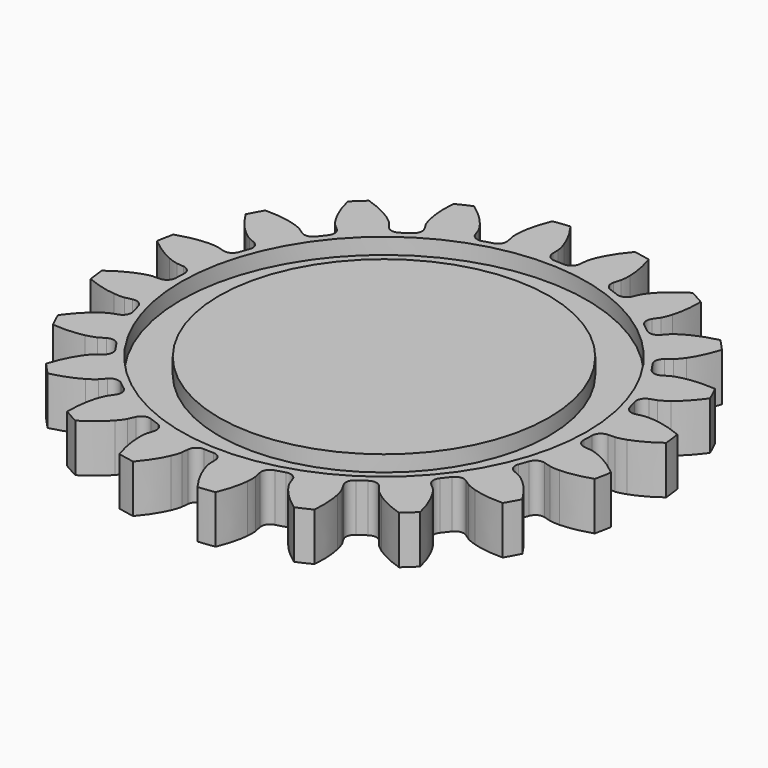
from build123d import *

# Parameters (mm, degrees)
SKETCH011_W  = 2.368544
SKETCH011_H  = 1
SKETCH010_W  = 2.368544
SKETCH010_H  = 1
PAD007_DEPTH = 3


with BuildPart() as revolution005:
    # Sketch011 → Revolution005 (revolve)
    with BuildSketch(Plane(origin=(0, 30, 9), x_dir=(1, 0, 0), z_dir=(0, -1, 0))):
        with Locations((11.491946, -1.5)):
            Rectangle(SKETCH011_W, SKETCH011_H)
    revolve(axis=Axis((0, 30, 9), (0, 0, 1)))


with BuildPart() as revolution004:
    # Sketch010 → Revolution004 (revolve)
    with BuildSketch(Plane(origin=(0, 30, 4), x_dir=(1, 0, 0), z_dir=(0, -1, 0))):
        with Locations((11.491946, 1.5)):
            Rectangle(SKETCH010_W, SKETCH010_H)
    revolve(axis=Axis((0, 30, 4), (0, 0, 1)))


with BuildPart() as cut009:
    # InvoluteGear009 → Pad007 (new body)
    with BuildSketch(Plane(origin=(0, 30, 5), x_dir=(0.981627, -0.190809, 0), z_dir=(0, 0, 1))):
        with BuildLine():
            Line((13.616272, -1.276078), (14.060782, -1.316606))
            add(Edge.make_bspline(
                [(14.060782, -1.316606), (14.131633, -1.31887), (14.344895, -1.31703), (14.700714, -1.23999)],
                knots=[0, 0, 0, 0, 1, 1, 1, 1], degree=3))
            add(Edge.make_bspline(
                [(14.700714, -1.23999), (15.126352, -1.146417), (15.738874, -0.946103), (16.493432, -0.520451)],
                knots=[0, 0, 0, 0, 1, 1, 1, 1], degree=3))
            ThreePointArc((16.493432, -0.520451), (16.501642, 0), (16.493432, 0.520451))
            add(Edge.make_bspline(
                [(16.493432, 0.520451), (15.738874, 0.946103), (15.126352, 1.146417), (14.700714, 1.23999)],
                knots=[0, 0, 0, 0, 1, 1, 1, 1], degree=3))
            add(Edge.make_bspline(
                [(14.700714, 1.23999), (14.344895, 1.31703), (14.131633, 1.31887), (14.060782, 1.316606)],
                knots=[0, 0, 0, 0, 1, 1, 1, 1], degree=3))
            Line((14.060782, 1.316606), (13.616272, 1.276078))
            ThreePointArc((13.616272, 1.276078), (13.214043, 1.395572), (13.006432, 1.760216))
            ThreePointArc((13.006432, 1.760216), (12.963409, 2.053202), (12.913788, 2.345144))
            ThreePointArc((12.913788, 2.345144), (12.998557, 2.756096), (13.344174, 2.994037))
            Line((13.344174, 2.994037), (13.779452, 3.092854))
            add(Edge.make_bspline(
                [(13.779452, 3.092854), (13.847535, 3.112595), (14.04979, 3.180246), (14.364388, 3.36347)],
                knots=[0, 0, 0, 0, 1, 1, 1, 1], degree=3))
            add(Edge.make_bspline(
                [(14.364388, 3.36347), (14.740277, 3.583993), (15.26092, 3.963782), (15.847014, 4.601772)],
                knots=[0, 0, 0, 0, 1, 1, 1, 1], degree=3))
            ThreePointArc((15.847014, 4.601772), (15.693995, 5.099288), (15.525358, 5.591729))
            add(Edge.make_bspline(
                [(15.525358, 5.591729), (14.676196, 5.763376), (14.031753, 5.764607), (13.598032, 5.722071)],
                knots=[0, 0, 0, 0, 1, 1, 1, 1], degree=3))
            add(Edge.make_bspline(
                [(13.598032, 5.722071), (13.235821, 5.685386), (13.032428, 5.621235), (12.965745, 5.597187)],
                knots=[0, 0, 0, 0, 1, 1, 1, 1], degree=3))
            Line((12.965745, 5.597187), (12.555515, 5.421282))
            ThreePointArc((12.555515, 5.421282), (12.136046, 5.410632), (11.825915, 5.693273))
            ThreePointArc((11.825915, 5.693273), (11.694461, 5.958625), (11.557053, 6.220944))
            ThreePointArc((11.557053, 6.220944), (11.510682, 6.637978), (11.765856, 6.971075))
            Line((11.765856, 6.971075), (12.149293, 7.199564))
            add(Edge.make_bspline(
                [(12.149293, 7.199564), (12.207943, 7.239377), (12.379394, 7.366218), (12.621975, 7.63769)],
                knots=[0, 0, 0, 0, 1, 1, 1, 1], degree=3))
            add(Edge.make_bspline(
                [(12.621975, 7.63769), (12.911322, 7.963576), (13.289121, 8.485665), (13.64938, 9.273542)],
                knots=[0, 0, 0, 0, 1, 1, 1, 1], degree=3))
            ThreePointArc((13.64938, 9.273542), (13.350109, 9.699422), (13.037553, 10.11565))
            add(Edge.make_bspline(
                [(13.037553, 10.11565), (12.176911, 10.016491), (11.563629, 9.818517), (11.16428, 9.644036)],
                knots=[0, 0, 0, 0, 1, 1, 1, 1], degree=3))
            add(Edge.make_bspline(
                [(11.16428, 9.644036), (10.831133, 9.497217), (10.657519, 9.373353), (10.60153, 9.329877)],
                knots=[0, 0, 0, 0, 1, 1, 1, 1], degree=3))
            Line((10.60153, 9.329877), (10.265736, 9.035813))
            ThreePointArc((10.265736, 9.035813), (9.870089, 8.896061), (9.487795, 9.069033))
            ThreePointArc((9.487795, 9.069033), (9.280777, 9.280777), (9.069033, 9.487795))
            ThreePointArc((9.069033, 9.487795), (8.896061, 9.870089), (9.035813, 10.265736))
            Line((9.035813, 10.265736), (9.329877, 10.60153))
            add(Edge.make_bspline(
                [(9.329877, 10.60153), (9.373353, 10.657519), (9.497217, 10.831133), (9.644036, 11.16428)],
                knots=[0, 0, 0, 0, 1, 1, 1, 1], degree=3))
            add(Edge.make_bspline(
                [(9.644036, 11.16428), (9.818517, 11.563629), (10.016491, 12.176911), (10.11565, 13.037553)],
                knots=[0, 0, 0, 0, 1, 1, 1, 1], degree=3))
            ThreePointArc((10.11565, 13.037553), (9.699422, 13.350109), (9.273542, 13.64938))
            add(Edge.make_bspline(
                [(9.273542, 13.64938), (8.485665, 13.289121), (7.963576, 12.911322), (7.63769, 12.621975)],
                knots=[0, 0, 0, 0, 1, 1, 1, 1], degree=3))
            add(Edge.make_bspline(
                [(7.63769, 12.621975), (7.366218, 12.379394), (7.239377, 12.207943), (7.199564, 12.149293)],
                knots=[0, 0, 0, 0, 1, 1, 1, 1], degree=3))
            Line((7.199564, 12.149293), (6.971075, 11.765856))
            ThreePointArc((6.971075, 11.765856), (6.637978, 11.510682), (6.220944, 11.557053))
            ThreePointArc((6.220944, 11.557053), (5.958625, 11.694461), (5.693273, 11.825915))
            ThreePointArc((5.693273, 11.825915), (5.410632, 12.136046), (5.421282, 12.555515))
            Line((5.421282, 12.555515), (5.597187, 12.965745))
            add(Edge.make_bspline(
                [(5.597187, 12.965745), (5.621235, 13.032428), (5.685386, 13.235821), (5.722071, 13.598032)],
                knots=[0, 0, 0, 0, 1, 1, 1, 1], degree=3))
            add(Edge.make_bspline(
                [(5.722071, 13.598032), (5.764607, 14.031753), (5.763376, 14.676196), (5.591729, 15.525358)],
                knots=[0, 0, 0, 0, 1, 1, 1, 1], degree=3))
            ThreePointArc((5.591729, 15.525358), (5.099288, 15.693995), (4.601772, 15.847014))
            add(Edge.make_bspline(
                [(4.601772, 15.847014), (3.963782, 15.26092), (3.583993, 14.740277), (3.36347, 14.364388)],
                knots=[0, 0, 0, 0, 1, 1, 1, 1], degree=3))
            add(Edge.make_bspline(
                [(3.36347, 14.364388), (3.180246, 14.04979), (3.112595, 13.847535), (3.092854, 13.779452)],
                knots=[0, 0, 0, 0, 1, 1, 1, 1], degree=3))
            Line((3.092854, 13.779452), (2.994037, 13.344174))
            ThreePointArc((2.994037, 13.344174), (2.756096, 12.998557), (2.345144, 12.913788))
            ThreePointArc((2.345144, 12.913788), (2.053202, 12.963409), (1.760216, 13.006432))
            ThreePointArc((1.760216, 13.006432), (1.395572, 13.214043), (1.276078, 13.616272))
            Line((1.276078, 13.616272), (1.316606, 14.060782))
            add(Edge.make_bspline(
                [(1.316606, 14.060782), (1.31887, 14.131633), (1.31703, 14.344895), (1.23999, 14.700714)],
                knots=[0, 0, 0, 0, 1, 1, 1, 1], degree=3))
            add(Edge.make_bspline(
                [(1.23999, 14.700714), (1.146417, 15.126352), (0.946103, 15.738874), (0.520451, 16.493432)],
                knots=[0, 0, 0, 0, 1, 1, 1, 1], degree=3))
            ThreePointArc((0.520451, 16.493432), (0, 16.501642), (-0.520451, 16.493432))
            add(Edge.make_bspline(
                [(-0.520451, 16.493432), (-0.946103, 15.738874), (-1.146417, 15.126352), (-1.23999, 14.700714)],
                knots=[0, 0, 0, 0, 1, 1, 1, 1], degree=3))
            add(Edge.make_bspline(
                [(-1.23999, 14.700714), (-1.31703, 14.344895), (-1.31887, 14.131633), (-1.316606, 14.060782)],
                knots=[0, 0, 0, 0, 1, 1, 1, 1], degree=3))
            Line((-1.316606, 14.060782), (-1.276078, 13.616272))
            ThreePointArc((-1.276078, 13.616272), (-1.395572, 13.214043), (-1.760216, 13.006432))
            ThreePointArc((-1.760216, 13.006432), (-2.053202, 12.963409), (-2.345144, 12.913788))
            ThreePointArc((-2.345144, 12.913788), (-2.756096, 12.998557), (-2.994037, 13.344174))
            Line((-2.994037, 13.344174), (-3.092854, 13.779452))
            add(Edge.make_bspline(
                [(-3.092854, 13.779452), (-3.112595, 13.847535), (-3.180246, 14.04979), (-3.36347, 14.364388)],
                knots=[0, 0, 0, 0, 1, 1, 1, 1], degree=3))
            add(Edge.make_bspline(
                [(-3.36347, 14.364388), (-3.583993, 14.740277), (-3.963782, 15.26092), (-4.601772, 15.847014)],
                knots=[0, 0, 0, 0, 1, 1, 1, 1], degree=3))
            ThreePointArc((-4.601772, 15.847014), (-5.099288, 15.693995), (-5.591729, 15.525358))
            add(Edge.make_bspline(
                [(-5.591729, 15.525358), (-5.763376, 14.676196), (-5.764607, 14.031753), (-5.722071, 13.598032)],
                knots=[0, 0, 0, 0, 1, 1, 1, 1], degree=3))
            add(Edge.make_bspline(
                [(-5.722071, 13.598032), (-5.685386, 13.235821), (-5.621235, 13.032428), (-5.597187, 12.965745)],
                knots=[0, 0, 0, 0, 1, 1, 1, 1], degree=3))
            Line((-5.597187, 12.965745), (-5.421282, 12.555515))
            ThreePointArc((-5.421282, 12.555515), (-5.410632, 12.136046), (-5.693273, 11.825915))
            ThreePointArc((-5.693273, 11.825915), (-5.958625, 11.694461), (-6.220944, 11.557053))
            ThreePointArc((-6.220944, 11.557053), (-6.637978, 11.510682), (-6.971075, 11.765856))
            Line((-6.971075, 11.765856), (-7.199564, 12.149293))
            add(Edge.make_bspline(
                [(-7.199564, 12.149293), (-7.239377, 12.207943), (-7.366218, 12.379394), (-7.63769, 12.621975)],
                knots=[0, 0, 0, 0, 1, 1, 1, 1], degree=3))
            add(Edge.make_bspline(
                [(-7.63769, 12.621975), (-7.963576, 12.911322), (-8.485665, 13.289121), (-9.273542, 13.64938)],
                knots=[0, 0, 0, 0, 1, 1, 1, 1], degree=3))
            ThreePointArc((-9.273542, 13.64938), (-9.699422, 13.350109), (-10.11565, 13.037553))
            add(Edge.make_bspline(
                [(-10.11565, 13.037553), (-10.016491, 12.176911), (-9.818517, 11.563629), (-9.644036, 11.16428)],
                knots=[0, 0, 0, 0, 1, 1, 1, 1], degree=3))
            add(Edge.make_bspline(
                [(-9.644036, 11.16428), (-9.497217, 10.831133), (-9.373353, 10.657519), (-9.329877, 10.60153)],
                knots=[0, 0, 0, 0, 1, 1, 1, 1], degree=3))
            Line((-9.329877, 10.60153), (-9.035813, 10.265736))
            ThreePointArc((-9.035813, 10.265736), (-8.896061, 9.870089), (-9.069033, 9.487795))
            ThreePointArc((-9.069033, 9.487795), (-9.280777, 9.280777), (-9.487795, 9.069033))
            ThreePointArc((-9.487795, 9.069033), (-9.870089, 8.896061), (-10.265736, 9.035813))
            Line((-10.265736, 9.035813), (-10.60153, 9.329877))
            add(Edge.make_bspline(
                [(-10.60153, 9.329877), (-10.657519, 9.373353), (-10.831133, 9.497217), (-11.16428, 9.644036)],
                knots=[0, 0, 0, 0, 1, 1, 1, 1], degree=3))
            add(Edge.make_bspline(
                [(-11.16428, 9.644036), (-11.563629, 9.818517), (-12.176911, 10.016491), (-13.037553, 10.11565)],
                knots=[0, 0, 0, 0, 1, 1, 1, 1], degree=3))
            ThreePointArc((-13.037553, 10.11565), (-13.350109, 9.699422), (-13.64938, 9.273542))
            add(Edge.make_bspline(
                [(-13.64938, 9.273542), (-13.289121, 8.485665), (-12.911322, 7.963576), (-12.621975, 7.63769)],
                knots=[0, 0, 0, 0, 1, 1, 1, 1], degree=3))
            add(Edge.make_bspline(
                [(-12.621975, 7.63769), (-12.379394, 7.366218), (-12.207943, 7.239377), (-12.149293, 7.199564)],
                knots=[0, 0, 0, 0, 1, 1, 1, 1], degree=3))
            Line((-12.149293, 7.199564), (-11.765856, 6.971075))
            ThreePointArc((-11.765856, 6.971075), (-11.510682, 6.637978), (-11.557053, 6.220944))
            ThreePointArc((-11.557053, 6.220944), (-11.694461, 5.958625), (-11.825915, 5.693273))
            ThreePointArc((-11.825915, 5.693273), (-12.136046, 5.410632), (-12.555515, 5.421282))
            Line((-12.555515, 5.421282), (-12.965745, 5.597187))
            add(Edge.make_bspline(
                [(-12.965745, 5.597187), (-13.032428, 5.621235), (-13.235821, 5.685386), (-13.598032, 5.722071)],
                knots=[0, 0, 0, 0, 1, 1, 1, 1], degree=3))
            add(Edge.make_bspline(
                [(-13.598032, 5.722071), (-14.031753, 5.764607), (-14.676196, 5.763376), (-15.525358, 5.591729)],
                knots=[0, 0, 0, 0, 1, 1, 1, 1], degree=3))
            ThreePointArc((-15.525358, 5.591729), (-15.693995, 5.099288), (-15.847014, 4.601772))
            add(Edge.make_bspline(
                [(-15.847014, 4.601772), (-15.26092, 3.963782), (-14.740277, 3.583993), (-14.364388, 3.36347)],
                knots=[0, 0, 0, 0, 1, 1, 1, 1], degree=3))
            add(Edge.make_bspline(
                [(-14.364388, 3.36347), (-14.04979, 3.180246), (-13.847535, 3.112595), (-13.779452, 3.092854)],
                knots=[0, 0, 0, 0, 1, 1, 1, 1], degree=3))
            Line((-13.779452, 3.092854), (-13.344174, 2.994037))
            ThreePointArc((-13.344174, 2.994037), (-12.998557, 2.756096), (-12.913788, 2.345144))
            ThreePointArc((-12.913788, 2.345144), (-12.963409, 2.053202), (-13.006432, 1.760216))
            ThreePointArc((-13.006432, 1.760216), (-13.214043, 1.395572), (-13.616272, 1.276078))
            Line((-13.616272, 1.276078), (-14.060782, 1.316606))
            add(Edge.make_bspline(
                [(-14.060782, 1.316606), (-14.131633, 1.31887), (-14.344895, 1.31703), (-14.700714, 1.23999)],
                knots=[0, 0, 0, 0, 1, 1, 1, 1], degree=3))
            add(Edge.make_bspline(
                [(-14.700714, 1.23999), (-15.126352, 1.146417), (-15.738874, 0.946103), (-16.493432, 0.520451)],
                knots=[0, 0, 0, 0, 1, 1, 1, 1], degree=3))
            ThreePointArc((-16.493432, 0.520451), (-16.501642, 0), (-16.493432, -0.520451))
            add(Edge.make_bspline(
                [(-16.493432, -0.520451), (-15.738874, -0.946103), (-15.126352, -1.146417), (-14.700714, -1.23999)],
                knots=[0, 0, 0, 0, 1, 1, 1, 1], degree=3))
            add(Edge.make_bspline(
                [(-14.700714, -1.23999), (-14.344895, -1.31703), (-14.131633, -1.31887), (-14.060782, -1.316606)],
                knots=[0, 0, 0, 0, 1, 1, 1, 1], degree=3))
            Line((-14.060782, -1.316606), (-13.616272, -1.276078))
            ThreePointArc((-13.616272, -1.276078), (-13.214043, -1.395572), (-13.006432, -1.760216))
            ThreePointArc((-13.006432, -1.760216), (-12.963409, -2.053202), (-12.913788, -2.345144))
            ThreePointArc((-12.913788, -2.345144), (-12.998557, -2.756096), (-13.344174, -2.994037))
            Line((-13.344174, -2.994037), (-13.779452, -3.092854))
            add(Edge.make_bspline(
                [(-13.779452, -3.092854), (-13.847535, -3.112595), (-14.04979, -3.180246), (-14.364388, -3.36347)],
                knots=[0, 0, 0, 0, 1, 1, 1, 1], degree=3))
            add(Edge.make_bspline(
                [(-14.364388, -3.36347), (-14.740277, -3.583993), (-15.26092, -3.963782), (-15.847014, -4.601772)],
                knots=[0, 0, 0, 0, 1, 1, 1, 1], degree=3))
            ThreePointArc((-15.847014, -4.601772), (-15.693995, -5.099288), (-15.525358, -5.591729))
            add(Edge.make_bspline(
                [(-15.525358, -5.591729), (-14.676196, -5.763376), (-14.031753, -5.764607), (-13.598032, -5.722071)],
                knots=[0, 0, 0, 0, 1, 1, 1, 1], degree=3))
            add(Edge.make_bspline(
                [(-13.598032, -5.722071), (-13.235821, -5.685386), (-13.032428, -5.621235), (-12.965745, -5.597187)],
                knots=[0, 0, 0, 0, 1, 1, 1, 1], degree=3))
            Line((-12.965745, -5.597187), (-12.555515, -5.421282))
            ThreePointArc((-12.555515, -5.421282), (-12.136046, -5.410632), (-11.825915, -5.693273))
            ThreePointArc((-11.825915, -5.693273), (-11.694461, -5.958625), (-11.557053, -6.220944))
            ThreePointArc((-11.557053, -6.220944), (-11.510682, -6.637978), (-11.765856, -6.971075))
            Line((-11.765856, -6.971075), (-12.149293, -7.199564))
            add(Edge.make_bspline(
                [(-12.149293, -7.199564), (-12.207943, -7.239377), (-12.379394, -7.366218), (-12.621975, -7.63769)],
                knots=[0, 0, 0, 0, 1, 1, 1, 1], degree=3))
            add(Edge.make_bspline(
                [(-12.621975, -7.63769), (-12.911322, -7.963576), (-13.289121, -8.485665), (-13.64938, -9.273542)],
                knots=[0, 0, 0, 0, 1, 1, 1, 1], degree=3))
            ThreePointArc((-13.64938, -9.273542), (-13.350109, -9.699422), (-13.037553, -10.11565))
            add(Edge.make_bspline(
                [(-13.037553, -10.11565), (-12.176911, -10.016491), (-11.563629, -9.818517), (-11.16428, -9.644036)],
                knots=[0, 0, 0, 0, 1, 1, 1, 1], degree=3))
            add(Edge.make_bspline(
                [(-11.16428, -9.644036), (-10.831133, -9.497217), (-10.657519, -9.373353), (-10.60153, -9.329877)],
                knots=[0, 0, 0, 0, 1, 1, 1, 1], degree=3))
            Line((-10.60153, -9.329877), (-10.265736, -9.035813))
            ThreePointArc((-10.265736, -9.035813), (-9.870089, -8.896061), (-9.487795, -9.069033))
            ThreePointArc((-9.487795, -9.069033), (-9.280777, -9.280777), (-9.069033, -9.487795))
            ThreePointArc((-9.069033, -9.487795), (-8.896061, -9.870089), (-9.035813, -10.265736))
            Line((-9.035813, -10.265736), (-9.329877, -10.60153))
            add(Edge.make_bspline(
                [(-9.329877, -10.60153), (-9.373353, -10.657519), (-9.497217, -10.831133), (-9.644036, -11.16428)],
                knots=[0, 0, 0, 0, 1, 1, 1, 1], degree=3))
            add(Edge.make_bspline(
                [(-9.644036, -11.16428), (-9.818517, -11.563629), (-10.016491, -12.176911), (-10.11565, -13.037553)],
                knots=[0, 0, 0, 0, 1, 1, 1, 1], degree=3))
            ThreePointArc((-10.11565, -13.037553), (-9.699422, -13.350109), (-9.273542, -13.64938))
            add(Edge.make_bspline(
                [(-9.273542, -13.64938), (-8.485665, -13.289121), (-7.963576, -12.911322), (-7.63769, -12.621975)],
                knots=[0, 0, 0, 0, 1, 1, 1, 1], degree=3))
            add(Edge.make_bspline(
                [(-7.63769, -12.621975), (-7.366218, -12.379394), (-7.239377, -12.207943), (-7.199564, -12.149293)],
                knots=[0, 0, 0, 0, 1, 1, 1, 1], degree=3))
            Line((-7.199564, -12.149293), (-6.971075, -11.765856))
            ThreePointArc((-6.971075, -11.765856), (-6.637978, -11.510682), (-6.220944, -11.557053))
            ThreePointArc((-6.220944, -11.557053), (-5.958625, -11.694461), (-5.693273, -11.825915))
            ThreePointArc((-5.693273, -11.825915), (-5.410632, -12.136046), (-5.421282, -12.555515))
            Line((-5.421282, -12.555515), (-5.597187, -12.965745))
            add(Edge.make_bspline(
                [(-5.597187, -12.965745), (-5.621235, -13.032428), (-5.685386, -13.235821), (-5.722071, -13.598032)],
                knots=[0, 0, 0, 0, 1, 1, 1, 1], degree=3))
            add(Edge.make_bspline(
                [(-5.722071, -13.598032), (-5.764607, -14.031753), (-5.763376, -14.676196), (-5.591729, -15.525358)],
                knots=[0, 0, 0, 0, 1, 1, 1, 1], degree=3))
            ThreePointArc((-5.591729, -15.525358), (-5.099288, -15.693995), (-4.601772, -15.847014))
            add(Edge.make_bspline(
                [(-4.601772, -15.847014), (-3.963782, -15.26092), (-3.583993, -14.740277), (-3.36347, -14.364388)],
                knots=[0, 0, 0, 0, 1, 1, 1, 1], degree=3))
            add(Edge.make_bspline(
                [(-3.36347, -14.364388), (-3.180246, -14.04979), (-3.112595, -13.847535), (-3.092854, -13.779452)],
                knots=[0, 0, 0, 0, 1, 1, 1, 1], degree=3))
            Line((-3.092854, -13.779452), (-2.994037, -13.344174))
            ThreePointArc((-2.994037, -13.344174), (-2.756096, -12.998557), (-2.345144, -12.913788))
            ThreePointArc((-2.345144, -12.913788), (-2.053202, -12.963409), (-1.760216, -13.006432))
            ThreePointArc((-1.760216, -13.006432), (-1.395572, -13.214043), (-1.276078, -13.616272))
            Line((-1.276078, -13.616272), (-1.316606, -14.060782))
            add(Edge.make_bspline(
                [(-1.316606, -14.060782), (-1.31887, -14.131633), (-1.31703, -14.344895), (-1.23999, -14.700714)],
                knots=[0, 0, 0, 0, 1, 1, 1, 1], degree=3))
            add(Edge.make_bspline(
                [(-1.23999, -14.700714), (-1.146417, -15.126352), (-0.946103, -15.738874), (-0.520451, -16.493432)],
                knots=[0, 0, 0, 0, 1, 1, 1, 1], degree=3))
            ThreePointArc((-0.520451, -16.493432), (0, -16.501642), (0.520451, -16.493432))
            add(Edge.make_bspline(
                [(0.520451, -16.493432), (0.946103, -15.738874), (1.146417, -15.126352), (1.23999, -14.700714)],
                knots=[0, 0, 0, 0, 1, 1, 1, 1], degree=3))
            add(Edge.make_bspline(
                [(1.23999, -14.700714), (1.31703, -14.344895), (1.31887, -14.131633), (1.316606, -14.060782)],
                knots=[0, 0, 0, 0, 1, 1, 1, 1], degree=3))
            Line((1.316606, -14.060782), (1.276078, -13.616272))
            ThreePointArc((1.276078, -13.616272), (1.395572, -13.214043), (1.760216, -13.006432))
            ThreePointArc((1.760216, -13.006432), (2.053202, -12.963409), (2.345144, -12.913788))
            ThreePointArc((2.345144, -12.913788), (2.756096, -12.998557), (2.994037, -13.344174))
            Line((2.994037, -13.344174), (3.092854, -13.779452))
            add(Edge.make_bspline(
                [(3.092854, -13.779452), (3.112595, -13.847535), (3.180246, -14.04979), (3.36347, -14.364388)],
                knots=[0, 0, 0, 0, 1, 1, 1, 1], degree=3))
            add(Edge.make_bspline(
                [(3.36347, -14.364388), (3.583993, -14.740277), (3.963782, -15.26092), (4.601772, -15.847014)],
                knots=[0, 0, 0, 0, 1, 1, 1, 1], degree=3))
            ThreePointArc((4.601772, -15.847014), (5.099288, -15.693995), (5.591729, -15.525358))
            add(Edge.make_bspline(
                [(5.591729, -15.525358), (5.763376, -14.676196), (5.764607, -14.031753), (5.722071, -13.598032)],
                knots=[0, 0, 0, 0, 1, 1, 1, 1], degree=3))
            add(Edge.make_bspline(
                [(5.722071, -13.598032), (5.685386, -13.235821), (5.621235, -13.032428), (5.597187, -12.965745)],
                knots=[0, 0, 0, 0, 1, 1, 1, 1], degree=3))
            Line((5.597187, -12.965745), (5.421282, -12.555515))
            ThreePointArc((5.421282, -12.555515), (5.410632, -12.136046), (5.693273, -11.825915))
            ThreePointArc((5.693273, -11.825915), (5.958625, -11.694461), (6.220944, -11.557053))
            ThreePointArc((6.220944, -11.557053), (6.637978, -11.510682), (6.971075, -11.765856))
            Line((6.971075, -11.765856), (7.199564, -12.149293))
            add(Edge.make_bspline(
                [(7.199564, -12.149293), (7.239377, -12.207943), (7.366218, -12.379394), (7.63769, -12.621975)],
                knots=[0, 0, 0, 0, 1, 1, 1, 1], degree=3))
            add(Edge.make_bspline(
                [(7.63769, -12.621975), (7.963576, -12.911322), (8.485665, -13.289121), (9.273542, -13.64938)],
                knots=[0, 0, 0, 0, 1, 1, 1, 1], degree=3))
            ThreePointArc((9.273542, -13.64938), (9.699422, -13.350109), (10.11565, -13.037553))
            add(Edge.make_bspline(
                [(10.11565, -13.037553), (10.016491, -12.176911), (9.818517, -11.563629), (9.644036, -11.16428)],
                knots=[0, 0, 0, 0, 1, 1, 1, 1], degree=3))
            add(Edge.make_bspline(
                [(9.644036, -11.16428), (9.497217, -10.831133), (9.373353, -10.657519), (9.329877, -10.60153)],
                knots=[0, 0, 0, 0, 1, 1, 1, 1], degree=3))
            Line((9.329877, -10.60153), (9.035813, -10.265736))
            ThreePointArc((9.035813, -10.265736), (8.896061, -9.870089), (9.069033, -9.487795))
            ThreePointArc((9.069033, -9.487795), (9.280777, -9.280777), (9.487795, -9.069033))
            ThreePointArc((9.487795, -9.069033), (9.870089, -8.896061), (10.265736, -9.035813))
            Line((10.265736, -9.035813), (10.60153, -9.329877))
            add(Edge.make_bspline(
                [(10.60153, -9.329877), (10.657519, -9.373353), (10.831133, -9.497217), (11.16428, -9.644036)],
                knots=[0, 0, 0, 0, 1, 1, 1, 1], degree=3))
            add(Edge.make_bspline(
                [(11.16428, -9.644036), (11.563629, -9.818517), (12.176911, -10.016491), (13.037553, -10.11565)],
                knots=[0, 0, 0, 0, 1, 1, 1, 1], degree=3))
            ThreePointArc((13.037553, -10.11565), (13.350109, -9.699422), (13.64938, -9.273542))
            add(Edge.make_bspline(
                [(13.64938, -9.273542), (13.289121, -8.485665), (12.911322, -7.963576), (12.621975, -7.63769)],
                knots=[0, 0, 0, 0, 1, 1, 1, 1], degree=3))
            add(Edge.make_bspline(
                [(12.621975, -7.63769), (12.379394, -7.366218), (12.207943, -7.239377), (12.149293, -7.199564)],
                knots=[0, 0, 0, 0, 1, 1, 1, 1], degree=3))
            Line((12.149293, -7.199564), (11.765856, -6.971075))
            ThreePointArc((11.765856, -6.971075), (11.510682, -6.637978), (11.557053, -6.220944))
            ThreePointArc((11.557053, -6.220944), (11.694461, -5.958625), (11.825915, -5.693273))
            ThreePointArc((11.825915, -5.693273), (12.136046, -5.410632), (12.555515, -5.421282))
            Line((12.555515, -5.421282), (12.965745, -5.597187))
            add(Edge.make_bspline(
                [(12.965745, -5.597187), (13.032428, -5.621235), (13.235821, -5.685386), (13.598032, -5.722071)],
                knots=[0, 0, 0, 0, 1, 1, 1, 1], degree=3))
            add(Edge.make_bspline(
                [(13.598032, -5.722071), (14.031753, -5.764607), (14.676196, -5.763376), (15.525358, -5.591729)],
                knots=[0, 0, 0, 0, 1, 1, 1, 1], degree=3))
            ThreePointArc((15.525358, -5.591729), (15.693995, -5.099288), (15.847014, -4.601772))
            add(Edge.make_bspline(
                [(15.847014, -4.601772), (15.26092, -3.963782), (14.740277, -3.583993), (14.364388, -3.36347)],
                knots=[0, 0, 0, 0, 1, 1, 1, 1], degree=3))
            add(Edge.make_bspline(
                [(14.364388, -3.36347), (14.04979, -3.180246), (13.847535, -3.112595), (13.779452, -3.092854)],
                knots=[0, 0, 0, 0, 1, 1, 1, 1], degree=3))
            Line((13.779452, -3.092854), (13.344174, -2.994037))
            ThreePointArc((13.344174, -2.994037), (12.998557, -2.756096), (12.913788, -2.345144))
            ThreePointArc((12.913788, -2.345144), (12.963409, -2.053202), (13.006432, -1.760216))
            ThreePointArc((13.006432, -1.760216), (13.214043, -1.395572), (13.616272, -1.276078))
        make_face()
    extrude(amount=PAD007_DEPTH)

    # Cut008: cut Revolution004
    add(revolution004.part, mode=Mode.SUBTRACT)

    # Cut009: cut Revolution005
    add(revolution005.part, mode=Mode.SUBTRACT)


solid = cut009.part
